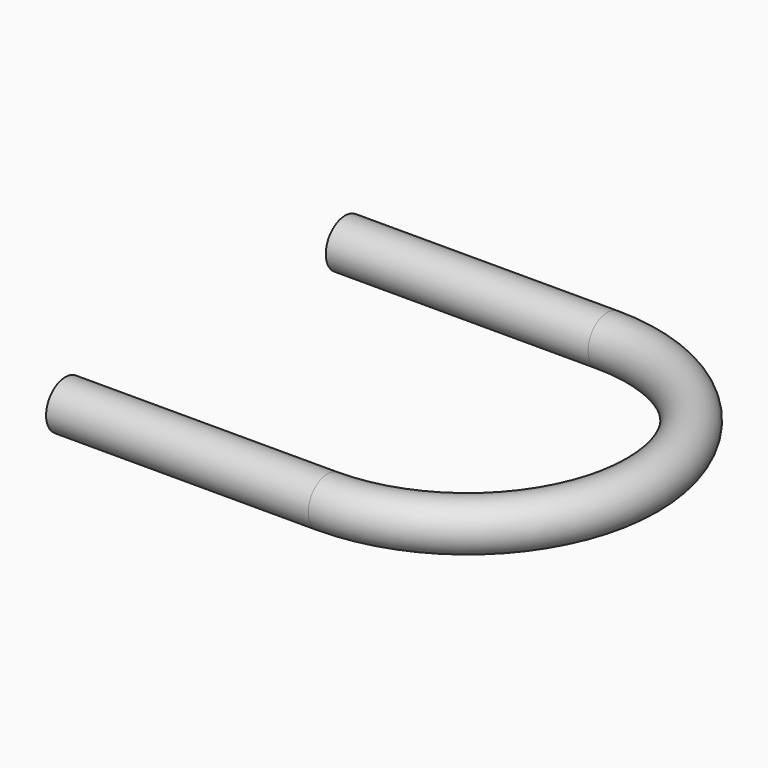
from build123d import *

# Parameters (mm, degrees)
F2_R   = 2.75
F2_R_2 = 2.1


with BuildPart() as f3:
    # F3: sweep along a path in F0
    with BuildLine(Plane.XY) as f3_path:
        Line((-25, 20), (5, 20))
        ThreePointArc((5, 20), (25, 0), (5, -20))
        Line((5, -20), (-25, -20))
    # F2 (on offset) → F3 (sweep)
    with BuildSketch(Plane.YZ.offset(-25)):
        with Locations((20, 0)):
            Circle(F2_R)
        with Locations((20, 0)):
            Circle(F2_R_2, mode=Mode.SUBTRACT)
    sweep(path=f3_path.line)


solid = f3.part
